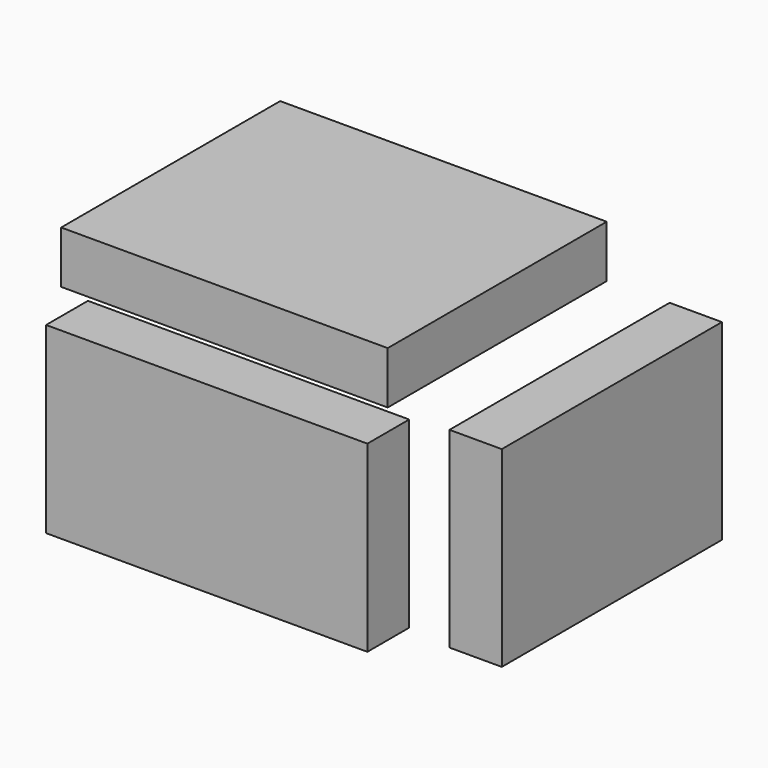
from build123d import *

# Parameters (mm, degrees)
F0_W     = 158.600218
F0_H     = 132.949639
F1_DEPTH = 25.4
F2_W     = 133.644551
F2_H     = 93.116939
F3_DEPTH = 25.4
F4_W     = 156.043697
F4_H     = 89.013711
F5_DEPTH = 25.4


with BuildPart() as f1:
    # F0 (on Top) → F1 (new body)
    with BuildSketch(Plane.XY):
        with Locations((-3.161516, 8.089078)):
            Rectangle(F0_W, F0_H)
    extrude(amount=F1_DEPTH)


with BuildPart() as f3:
    # F2 (on Right) → F3 (new body)
    with BuildSketch(Plane.YZ):
        with Locations((141.110748, -134.783312)):
            Rectangle(F2_W, F2_H)
    extrude(amount=F3_DEPTH)


with BuildPart() as f5:
    # F4 (on Front) → F5 (new body)
    with BuildSketch(Plane.XZ):
        with Locations((-38.148803, -85.154928)):
            Rectangle(F4_W, F4_H)
    extrude(amount=F5_DEPTH)


solid = Compound([f1.part, f3.part, f5.part])
